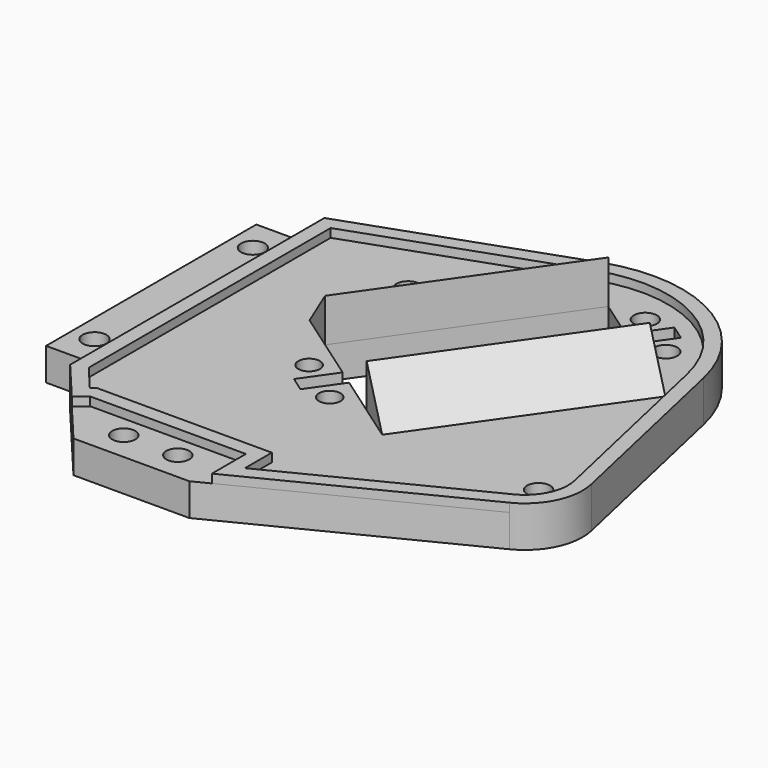
from build123d import *

# Parameters (mm, degrees)
F0_R     = 2.032
F0_R_2   = 2.0955
F0_R_3   = 1.905
F1_DEPTH = 5.715
F3_DEPTH = 1.524
F5_DEPTH = 1.524
F7_DEPTH = 40.64


with BuildPart() as f1:
    # F0 (on Top) → F1 (new body)
    with BuildSketch(Plane.XY):
        with BuildLine():
            Line((42.979039, -11.196153), (35.252589, 23.228599))
            ThreePointArc((35.252589, 23.228599), (22.99115, 39.586517), (2.617796, 41.274961))
            Line((2.617796, 41.274961), (-35.34082, 27.858045))
            Line((-35.34082, 27.858045), (-35.34082, 22.778045))
            Line((-35.34082, 22.778045), (-43.27832, 22.778045))
            Line((-43.27832, 22.778045), (-43.27832, -23.576955))
            Line((-43.27832, -23.576955), (-35.34082, -23.576955))
            Line((-35.34082, -23.576955), (-35.34082, -28.192097))
            Line((-35.34082, -28.192097), (-23.079528, -42.787694))
            Line((-23.079528, -42.787694), (-2.65018, -42.787694))
            Line((-2.65018, -42.787694), (37.631817, -22.502827))
            ThreePointArc((37.631817, -22.502827), (42.249864, -17.769064), (42.979039, -11.196153))
        make_face()
        with Locations((-18.264627, -37.707694)):
            Circle(F0_R, mode=Mode.SUBTRACT)
        with Locations((-8.739627, -37.707694)):
            Circle(F0_R, mode=Mode.SUBTRACT)
        with Locations((-39.30957, -17.861955)):
            Circle(F0_R_2, mode=Mode.SUBTRACT)
        with Locations((-3.20238, -11.133077)):
            Circle(F0_R_3, mode=Mode.SUBTRACT)
        with Locations((-11.414669, -5.413778)):
            Circle(F0_R_3, mode=Mode.SUBTRACT)
        with Locations((36.516652, -14.728804)):
            Circle(F0_R, mode=Mode.SUBTRACT)
        with Locations((-39.30957, 17.063045)):
            Circle(F0_R_2, mode=Mode.SUBTRACT)
        with Locations((-15.07797, 20.994581)):
            Circle(F0_R_2, mode=Mode.SUBTRACT)
        Polygon((26.502235, 22.29995), (3.192089, -10.990389), (-3.830092, -6.073405), (-7.836523, -11.795182), (-10.437331, -9.974077), (-6.4309, -4.2523), (-13.453081, 0.664684), (9.857066, 33.955024), (16.879247, 29.03804), (20.885678, 34.759817), (23.486486, 32.938711), (19.480055, 27.216934), align=None, mode=Mode.SUBTRACT)
        with Locations((16.266104, 34.118518)):
            Circle(F0_R, mode=Mode.SUBTRACT)
        with Locations((24.46385, 28.378394)):
            Circle(F0_R, mode=Mode.SUBTRACT)
    extrude(amount=-F1_DEPTH)

    # F2 (on face) → F3 (join)
    with BuildSketch(Plane.XY):
        with BuildLine():
            Line((-35.34082, 22.778045), (-35.34082, -23.576955))
            Line((-35.34082, -23.576955), (-35.34082, -28.192097))
            Line((-35.34082, -28.192097), (-29.210174, -35.489896))
            Line((-29.210174, -35.489896), (-27.265349, -33.85611))
            Line((-27.265349, -33.85611), (-32.80082, -27.266796))
            Line((-32.80082, -27.266796), (-32.80082, -23.576955))
            Line((-32.80082, -23.576955), (-32.80082, 22.778045))
            Line((-32.80082, 22.778045), (-32.80082, 26.061838))
            Line((-32.80082, 26.061838), (3.464267, 38.880157))
            ThreePointArc((3.464267, 38.880157), (21.761995, 37.363731), (32.774246, 22.672349))
            Line((32.774246, 22.672349), (40.500696, -11.752404))
            ThreePointArc((40.500696, -11.752404), (39.953697, -16.683147), (36.489417, -20.234232))
            Line((36.489417, -20.234232), (0.186785, -38.515204))
            Line((0.186785, -38.515204), (0.186785, -41.359079))
            Line((0.186785, -41.359079), (37.631817, -22.502827))
            ThreePointArc((37.631817, -22.502827), (42.249864, -17.769064), (42.979039, -11.196153))
            Line((42.979039, -11.196153), (35.252589, 23.228599))
            ThreePointArc((35.252589, 23.228599), (22.99115, 39.586517), (2.617796, 41.274961))
            Line((2.617796, 41.274961), (-35.34082, 27.858045))
            Line((-35.34082, 27.858045), (-35.34082, 22.778045))
        make_face()
    extrude(amount=F3_DEPTH)

    # F4 (on face) → F5 (join)
    with BuildSketch(Plane.XY):
        Polygon((-28.899134, -31.911285), (-27.265349, -33.85611), (0.186785, -33.85611), (0.186785, -38.515204), (2.726785, -37.236132), (2.726785, -31.31611), (-28.19065, -31.31611), align=None)
    extrude(amount=F5_DEPTH)

    # F6 (on face) → F7 (join)
    with BuildSketch(Plane(origin=(19.196518, 27.415469, 0), x_dir=(0.819152, -0.573576, 0), z_dir=(-0.573576, -0.819152, 0))):
        Polygon((-19.021366, 0), (-11.401366, 0), (-11.401366, 7.62), align=None)
        Polygon((8.918634, 7.62), (8.918634, 0), (16.538634, 0), align=None)
    extrude(amount=F7_DEPTH)


solid = f1.part
